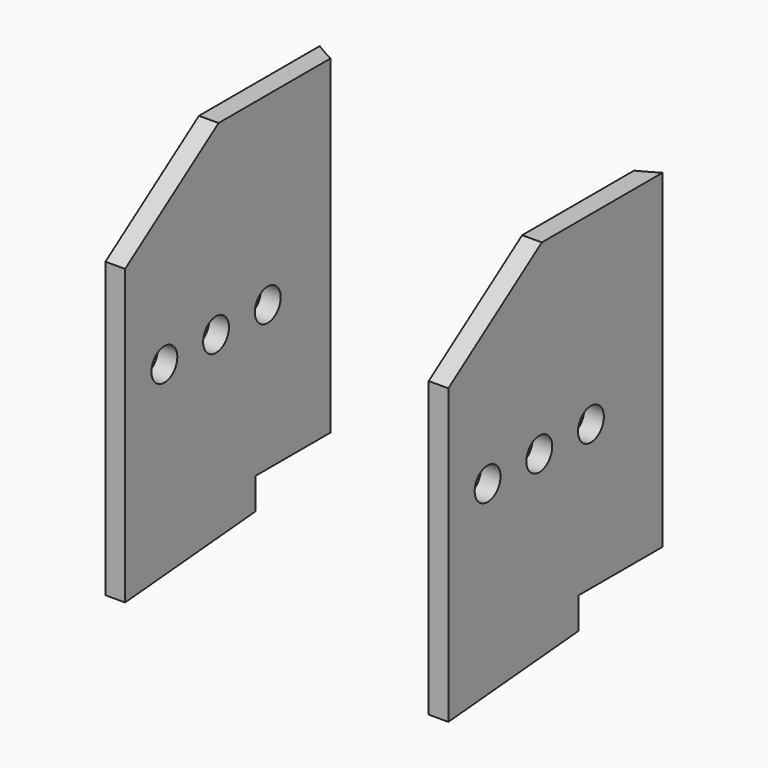
from build123d import *

# Parameters (mm, degrees)
F1_DEPTH = 323.85
F3_DEPTH = 19.304
F4_R     = 15.875
F5_DEPTH = 83.566


with BuildPart() as f1:
    # F0 (on Top) → F1 (new body)
    with BuildSketch(Plane.XY):
        with BuildLine():
            Line((149.225, -287.42081), (149.225, -539.75))
            Line((149.225, -539.75), (168.529, -539.75))
            Line((168.529, -539.75), (168.529, -276.544388))
            ThreePointArc((168.529, -276.544388), (158.970045, -282.14774), (149.225, -287.42081))
        make_face()
    extrude(amount=F1_DEPTH)

    # F2 (on face) → F3 (join)
    with BuildSketch(Plane.YZ.offset(168.529)):
        Polygon((-379.800558, 0), (-539.75, 0), (-539.75, -44.45), (-379.800558, -30.7687), align=None)
    extrude(amount=-F3_DEPTH)

    # F4 (on face) → F5 (cut)
    with BuildSketch(Plane.YZ.offset(168.529)):
        Polygon((-424.9166, 323.85), (-539.75, 323.85), (-539.75, 244.292598), align=None)
        with Locations((-491.49, 142.0622)):
            Circle(F4_R)
        with Locations((-427.99, 142.0622)):
            Circle(F4_R)
        with Locations((-364.49, 142.0622)):
            Circle(F4_R)
    extrude(amount=-F5_DEPTH, mode=Mode.SUBTRACT)


with BuildPart() as f6_1:
    # F6: instance of F1
    add(f1.part.mirror(Plane.YZ))


solid = Compound([f1.part, f6_1.part])
